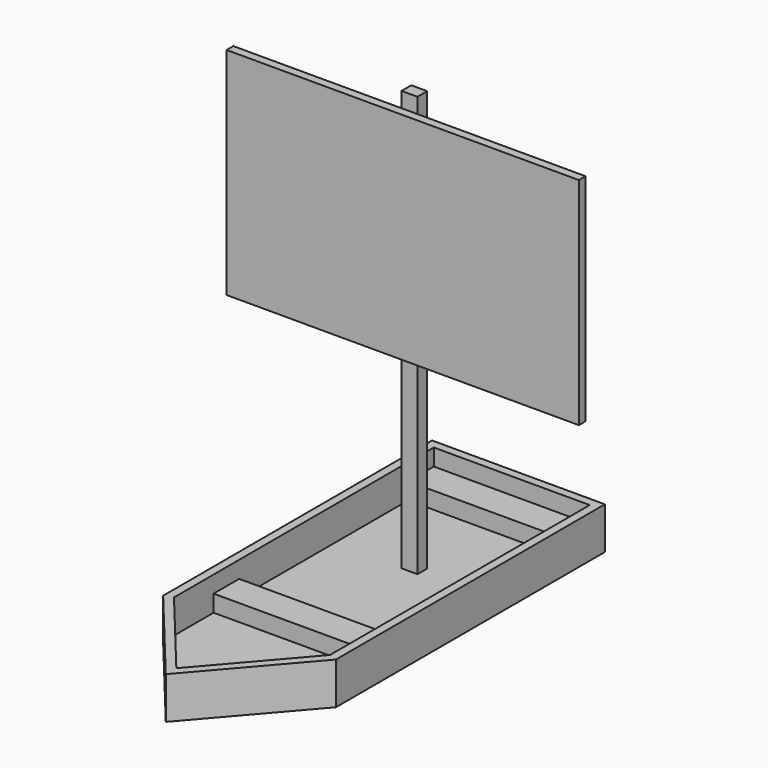
from build123d import *

# Parameters (mm, degrees)
F0_W      = 25.5351066589
F0_H      = 25.5351066589
F0_H_2    = 76.037876308
F0_W_2    = 26.6699995846
F1_DEPTH  = 12.7
F2_T      = -2.54
F3_W      = 47.1251062435
F3_H      = 9.6601096606
F3_H_2    = 9.6465954557
F4_DEPTH  = 5.08
F5_W      = 4.8232972622
F5_H      = 3.6884061992
F6_DEPTH  = 127
F7_W      = 4.8232972622
F7_H      = 2.9607340693
F8_DEPTH  = 2.54
F9_W      = 2.54
F9_H      = 2.9607340693
F10_DEPTH = 50.8
F11_W     = 2.54
F11_H     = 2.9607340693
F12_DEPTH = 50.8
F13_W     = 106.4232972622
F13_H     = 2.54
F14_DEPTH = 62.23


with BuildPart() as f1:
    # F0 (on Top) → F1 (new body)
    with BuildSketch(Plane.XY):
        with Locations((-12.7675533295, -12.7675533295)):
            Rectangle(F0_W, F0_H)
        with Locations((-12.7675533295, 38.018938154)):
            Rectangle(F0_W, F0_H_2)
        with Locations((13.3349997923, 38.018938154)):
            Rectangle(F0_W_2, F0_H_2)
        with Locations((13.3349997923, -12.7675533295)):
            Rectangle(F0_W_2, F0_H)
        Polygon((26.6699995846, -25.5351066589), (0, -25.5351066589), (-25.5351066589, -25.5351066589), (0, -56.4609579742), align=None)
    extrude(amount=F1_DEPTH)

    # F2
    f2_openings = [f1.faces().sort_by_distance(p)[0] for p in [
        (0.542456, 17.179425, 12.7),
    ]]
    offset(amount=F2_T, openings=f2_openings)

    # F3 (on face) → F4 (join)
    with BuildSketch(Plane.XY.offset(2.54)):
        with Locations((0.5674464628, 68.6678214777)):
            Rectangle(F3_W, F3_H)
        with Locations((0.5674464628, -4.8232977279)):
            Rectangle(F3_W, F3_H_2)
    extrude(amount=F4_DEPTH)

    # F5 (on face) → F6 (join)
    with BuildSketch(Plane.XY.offset(2.54)):
        with Locations((-0.1418609172, 37.5933516771)):
            Rectangle(F5_W, F5_H)
    extrude(amount=F6_DEPTH)

    # F7 (on face) → F8 (join)
    with BuildSketch(Plane.XZ.offset(-35.7491485775)):
        with Locations((-0.1418609172, 61.2260736525)):
            Rectangle(F7_W, F7_H)
    extrude(amount=F8_DEPTH)

    # F9 (on face) → F10 (join)
    with BuildSketch(Plane.YZ.offset(2.2697877139)):
        with Locations((34.4791485775, 61.2260736525)):
            Rectangle(F9_W, F9_H)
    extrude(amount=F10_DEPTH)

    # F11 (on face) → F12 (join)
    with BuildSketch(Plane(origin=(-2.5535095483, 0, 0), x_dir=(0, -1, 0), z_dir=(-1, 0, 0))):
        with Locations((-34.4791485775, 61.2260736525)):
            Rectangle(F11_W, F11_H)
    extrude(amount=F12_DEPTH)

    # F13 (on face) → F14 (join)
    with BuildSketch(Plane.XY.offset(62.7064406872)):
        with Locations((-0.1418609172, 34.4791485775)):
            Rectangle(F13_W, F13_H)
    extrude(amount=F14_DEPTH)


solid = f1.part
